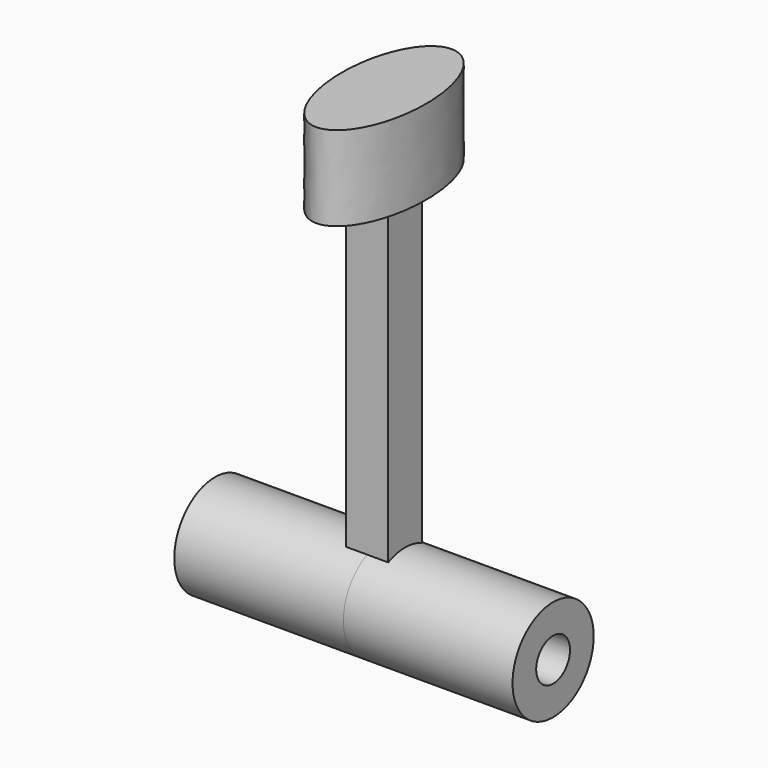
from build123d import *

# Parameters (mm, degrees)
F0_R     = 3.175
F1_DEPTH = 25.4
F2_DEPTH = 3.175
F5_DEPTH = 12.7


with BuildPart() as f1:
    # F0 (on Right) → F1 (new body, symmetric)
    with BuildSketch(Plane.YZ):
        with BuildLine():
            ThreePointArc((-3.175, 6.9270321928), (-4.1152703435, -6.4131856359), (7.62, 0))
            ThreePointArc((7.62, 0), (6.4131856359, 4.1152703435), (3.175, 6.9270321928))
            ThreePointArc((3.175, 6.9270321928), (0, 7.62), (-3.175, 6.9270321928))
        make_face()
        Circle(F0_R, mode=Mode.SUBTRACT)
    extrude(amount=F1_DEPTH, both=True)

    # F0 (on Right) → F2 (join, symmetric)
    with BuildSketch(Plane.YZ):
        with BuildLine():
            ThreePointArc((-3.175, 6.9270321928), (0, 7.62), (3.175, 6.9270321928))
            Line((3.175, 6.9270321928), (3.175, 67.31))
            Line((3.175, 67.31), (-3.175, 67.31))
            Line((-3.175, 67.31), (-3.175, 6.9270321928))
        make_face()
    extrude(amount=F2_DEPTH, both=True)

    # F4 (on offset) → F5 (join)
    with BuildSketch(Plane.XY.offset(67.31)):
        with BuildLine():
            add(Edge.make_bspline(
                [(0, -12.7), (10.9985226281, -12.7), (5.499261314, 6.35), (0, 25.4), (-5.499261314, 6.35), (-10.9985226281, -12.7), (0, -12.7)],
                knots=[0, 0, 0, 2.0943951024, 2.0943951024, 4.1887902048, 4.1887902048, 6.2831853072, 6.2831853072, 6.2831853072], degree=2, weights=[1, 0.5, 1, 0.5, 1, 0.5, 1]))
        make_face()
    extrude(amount=-F5_DEPTH)


solid = f1.part
